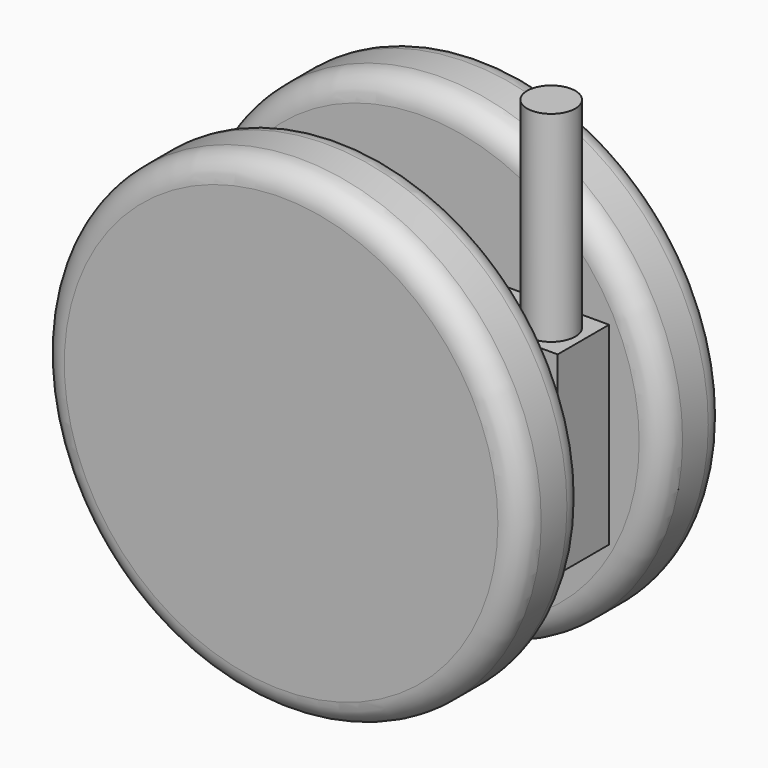
from build123d import *

# Parameters (mm, degrees)
F0_R     = 30
F1_DEPTH = 10
F2_R     = 3
F3_R     = 5
F4_DEPTH = 6
F6_W     = 35.899042
F6_H     = 24.106902
F6_R     = 5
F7_DEPTH = 4
F8_R     = 3
F9_DEPTH = 25


with BuildPart() as f1:
    # F0 (on Front) → F1 (new body)
    with BuildSketch(Plane.XZ):
        Circle(F0_R)
    extrude(amount=F1_DEPTH)

    # F2
    f2_edges = [f1.edges().sort_by_distance(p)[0] for p in [
        (-30, 0, 0),
        (-30, -10, 0),
    ]]
    fillet(f2_edges, radius=F2_R)

    # F3 (on face) → F4 (join)
    with BuildSketch(Plane(origin=(0, 0, 0), x_dir=(-1, 0, 0), z_dir=(0, 1, 0))):
        Circle(F3_R)
    extrude(amount=F4_DEPTH)


with BuildPart() as f5_1:
    # F5: instance of F1
    add(f1.part.mirror(Plane(origin=(0, 6, 0), x_dir=(-1, 0, 0), z_dir=(0, 1, 0))))


with BuildPart() as f7:
    # F6 (on face) → F7 (new body, symmetric)
    with BuildSketch(Plane(origin=(0, 6, 0), x_dir=(-1, 0, 0), z_dir=(0, 1, 0))):
        with Locations((-6.891085, 0.906796)):
            Rectangle(F6_W, F6_H)
        Circle(F6_R, mode=Mode.SUBTRACT)
    extrude(amount=F7_DEPTH, both=True)

    # F8 (on face) → F9 (join)
    with BuildSketch(Plane.XY.offset(12.960247)):
        with Locations((20.840606, 6)):
            Circle(F8_R)
    extrude(amount=F9_DEPTH)


solid = Compound([f1.part, f5_1.part, f7.part])
